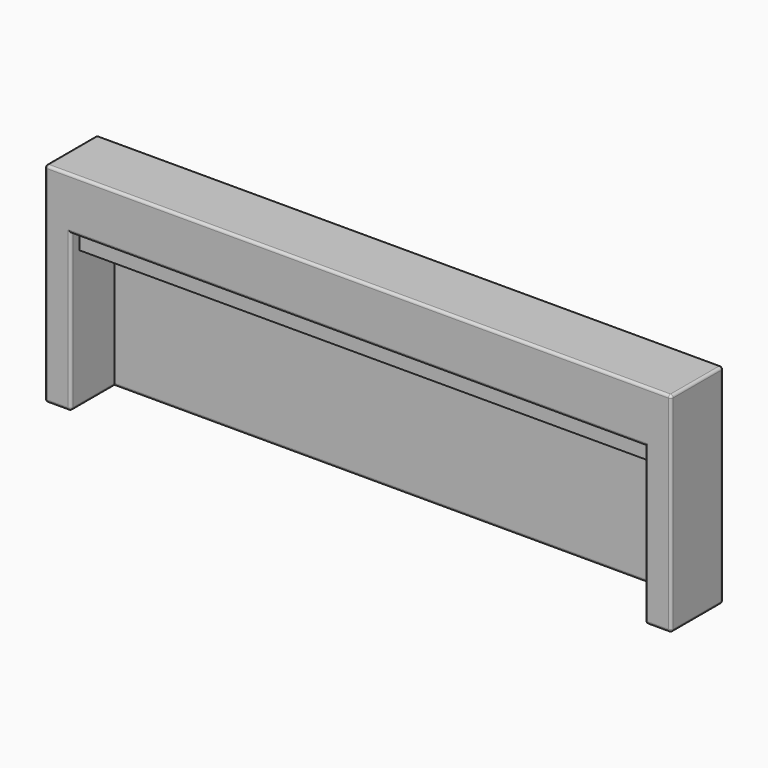
from build123d import *

# Parameters (mm, degrees)
F0_W     = 120
F0_H     = 40
F1_DEPTH = 12.5
F3_DEPTH = 9.7
F4_W     = 110
F4_H     = 10.5
F5_DEPTH = 30
F6_W     = 110
F6_H     = 1.62
F7_DEPTH = 3.6
F8_R     = 0.5


with BuildPart() as f1:
    # F0 (on Front) → F1 (new body)
    with BuildSketch(Plane.XZ):
        Rectangle(F0_W, F0_H)
    extrude(amount=F1_DEPTH)

    # F2 (on face) → F3 (join)
    with BuildSketch(Plane(origin=(0, 0, 0), x_dir=(-1, 0, 0), z_dir=(0, 1, 0))):
        with BuildLine():
            Line((-25, -10), (25, -10))
            ThreePointArc((25, -10), (28.5355339059, -8.5355339059), (30, -5))
            Line((30, -5), (30, 5))
            ThreePointArc((30, 5), (28.5355339059, 8.5355339059), (25, 10))
            Line((25, 10), (-25, 10))
            ThreePointArc((-25, 10), (-28.5355339059, 8.5355339059), (-30, 5))
            Line((-30, 5), (-30, -5))
            ThreePointArc((-30, -5), (-28.5355339059, -8.5355339059), (-25, -10))
        make_face()
    extrude(amount=F3_DEPTH)

    # F4 (on face) → F5 (cut)
    with BuildSketch(Plane(origin=(0, 0, -20), x_dir=(1, 0, 0), z_dir=(0, 0, -1))):
        with Locations((0, 7.25)):
            Rectangle(F4_W, F4_H)
    extrude(amount=-F5_DEPTH, mode=Mode.SUBTRACT)

    # F6 (on face) → F7 (join)
    with BuildSketch(Plane(origin=(0, 0, 10), x_dir=(1, 0, 0), z_dir=(0, 0, -1))):
        with Locations((0, 9.67)):
            Rectangle(F6_W, F6_H)
    extrude(amount=F7_DEPTH)

    # F8
    f8_edges = [f1.edges().sort_by_distance(p)[0] for p in [
        (0, 9.7, -10),
        (0, -2, -20),
        (55, -7.25, -20),
        (55, -12.5, -5),
        (0, -12.5, 10),
        (-55, -12.5, -5),
        (-55, -7.25, -20),
        (57.5, -12.5, -20),
        (60, -12.5, 0),
        (0, -12.5, 20),
        (-60, -12.5, 0),
        (-57.5, -12.5, -20),
        (60, -6.25, -20),
        (60, -6.25, 20),
        (-60, -6.25, 20),
        (-60, -6.25, -20),
        (-60, 0, 0),
        (0, 0, 20),
        (0, 0, -20),
        (60, 0, 0),
    ]]
    fillet(f8_edges, radius=F8_R)


solid = f1.part
